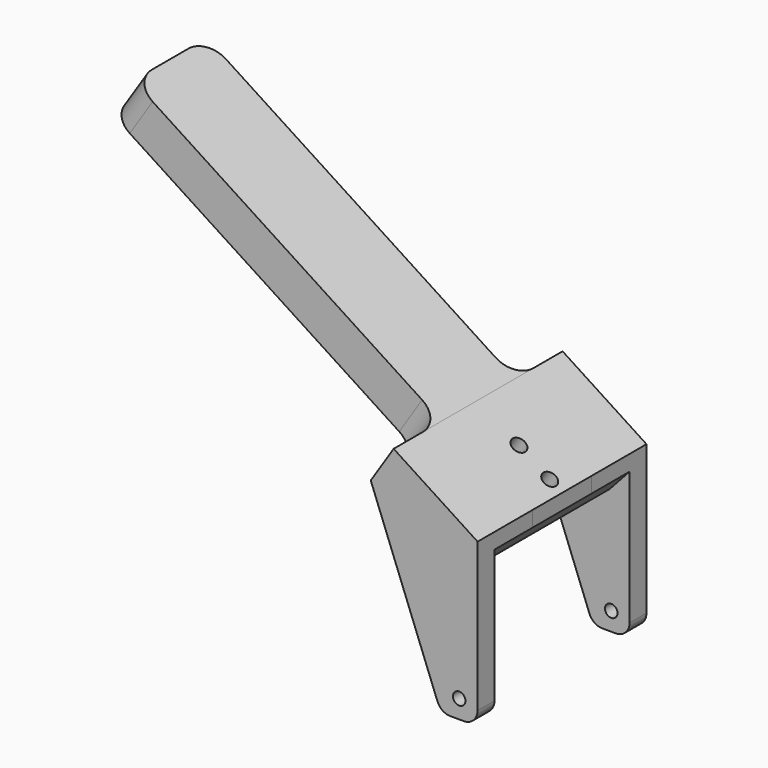
from build123d import *

# Parameters (mm, degrees)
F0_R      = 1.7272
F1_DEPTH  = 29.21
F2_W      = 46.736
F2_H      = 40.64
F3_DEPTH  = 25.4
F4_W      = 15.24
F4_H      = 6.35
F5_DEPTH  = 19.05
F6_W      = 15.24
F6_H      = 6.35
F7_DEPTH  = 19.05
F9_DEPTH  = 20.32
F11_DEPTH = 10.16
F12_SIZE2 = 0.8244325429
F12_SIZE  = 1.27
F13_W     = 25.4
F13_H     = 11.6485927218
F14_DEPTH = 101.6
F15_R     = 2.54
F16_R     = 6.35
F17_R     = 0.79502
F19_DEPTH = 5.842
F21_DEPTH = 5.842
F22_R     = 3.81
F24_DEPTH = 25.4
F26_DEPTH = 46.736
F27_R     = 2.032
F28_DEPTH = 70.6913527338


with BuildPart() as f1:
    # F0 (on Front) → F1 (new body, symmetric)
    with BuildSketch(Plane.XZ):
        Polygon((-10.16, 0), (0, 0), (0, 29.21), (0, 41.8084), (6.35, 41.8084), (6.35, 39.878), (10.16, 39.878), (12.7, 44.958), (0.0042528918, 44.958), (-10.16, 44.958), (-10.16, 37.6681894868), align=None)
        with Locations((-5.08, 5.08)):
            Circle(F0_R, mode=Mode.SUBTRACT)
        Polygon((-29.558896087, 50.2598920283), (-10.16, 37.6681894868), (-10.16, 44.958), (0.0042528918, 44.958), (-23.2167746872, 60.0306242704), align=None)
    extrude(amount=F1_DEPTH, both=True)

    # F2 (on face) → F3 (cut)
    with BuildSketch(Plane.YZ):
        with Locations((0, 20.32)):
            Rectangle(F2_W, F2_H)
    extrude(amount=-F3_DEPTH, mode=Mode.SUBTRACT)

    # F4 (on face) → F5 (cut)
    with BuildSketch(Plane(origin=(0, 29.21, 0), x_dir=(-1, 0, 0), z_dir=(0, 1, 0))):
        with Locations((-7.62, 41.783)):
            Rectangle(F4_W, F4_H)
    extrude(amount=-F5_DEPTH, mode=Mode.SUBTRACT)

    # F6 (on face) → F7 (cut)
    with BuildSketch(Plane.XZ.offset(29.21)):
        with Locations((7.62, 41.783)):
            Rectangle(F6_W, F6_H)
    extrude(amount=-F7_DEPTH, mode=Mode.SUBTRACT)

    # F8 (on face) → F9 (join)
    with BuildSketch(Plane.XZ.offset(10.16)):
        Polygon((2.8191059828, 41.8084), (0, 41.8084), (0, 40.64), align=None)
    extrude(amount=-F9_DEPTH)

    # F10 (on Front) → F11 (join, symmetric)
    with BuildSketch(Plane.XZ):
        Polygon((0.0042528918, 44.958), (12.7, 44.958), (-13.1833395176, 61.7587143563), (-16.9467400578, 55.9607838721), align=None)
    extrude(amount=F11_DEPTH, both=True)

    # F12
    f12_edges = [f1.edges().sort_by_distance(p)[0] for p in [
        (6.35, 0, 39.878),
    ]]
    f12_side = f1.faces().sort_by_distance((8.255, 0, 39.878))[0]
    chamfer(f12_edges, length=F12_SIZE, length2=F12_SIZE2, reference=f12_side)

    # F13 (on face) → F14 (join)
    with BuildSketch(Plane(origin=(-43.749584755, 0, 28.3975827839), x_dir=(0, -1, 0), z_dir=(-0.8387907858, 0, 0.5444538711))):
        with Locations((0, 31.888375289)):
            Rectangle(F13_W, F13_H)
    extrude(amount=F14_DEPTH)

    # F15
    f15_edges = [f1.edges().sort_by_distance(p)[0] for p in [
        (-13.18334, 0, 61.758714),
    ]]
    fillet(f15_edges, radius=F15_R)

    # F16
    f16_edges = [f1.edges().sort_by_distance(p)[0] for p in [
        (-26.387835, -12.7, 55.145258),
        (-26.387835, 12.7, 55.145258),
        (-111.608979, 12.7, 110.461771),
        (-111.608979, -12.7, 110.461771),
    ]]
    fillet(f16_edges, radius=F16_R)

    # F17
    f17_edges = [f1.edges().sort_by_distance(p)[0] for p in [
        (6.35, 0, 41.8084),
    ]]
    fillet(f17_edges, radius=F17_R)

    # F18 (on face) → F19 (join)
    with BuildSketch(Plane.XZ.offset(29.21)):
        Polygon((-10.16, 37.6681894868), (-29.558896087, 50.2598920283), (-10.16, 0), align=None)
    extrude(amount=-F19_DEPTH)

    # F20 (on face) → F21 (join)
    with BuildSketch(Plane(origin=(0, 29.21, 0), x_dir=(-1, 0, 0), z_dir=(0, 1, 0))):
        Polygon((10.16, 0), (29.558896087, 50.2598920283), (10.16, 37.6681894868), align=None)
    extrude(amount=-F21_DEPTH)

    # F22
    f22_edges = [f1.edges().sort_by_distance(p)[0] for p in [
        (0, -26.289, 0),
        (0, 26.289, 0),
        (-10.16, -26.289, 0),
        (-10.16, 26.289, 0),
    ]]
    fillet(f22_edges, radius=F22_R)

    # F23 (on face) → F24 (cut)
    with BuildSketch(Plane.XZ.offset(10.16)):
        with BuildLine():
            Line((-12.2835052774, 63.1450075017), (-14.5662523501, 59.6281857605))
            ThreePointArc((-14.5662523501, 59.6281857605), (-12.9643679303, 60.7296511872), (-11.0528109218, 60.3758015238))
            Line((-11.0528109218, 60.3758015238), (12.7, 44.958))
            Line((12.7, 44.958), (10.16, 39.878))
            Line((10.16, 39.878), (7.62, 39.878))
            Line((7.62, 39.878), (6.35, 40.7024325429))
            Line((6.35, 40.7024325429), (6.35, 41.01338))
            ThreePointArc((6.35, 41.01338), (6.1171440332, 41.5755440332), (5.55498, 41.8084))
            Line((5.55498, 41.8084), (2.8191059828, 41.8084))
            Line((2.8191059828, 41.8084), (0.0042528918, 40.6417626435))
            Line((0.0042528918, 40.6417626435), (0.0042528918, 37.8040261567))
            Line((0.0042528918, 37.8040261567), (17.359075731, 37.8040261567))
            Line((17.359075731, 37.8040261567), (17.359075731, 44.7986531364))
            Line((17.359075731, 44.7986531364), (-12.2835052774, 63.1450075017))
        make_face()
        with BuildLine():
            Line((-14.5662523501, 59.6281857605), (-16.9467400578, 55.9607838721))
            Line((-16.9467400578, 55.9607838721), (0.0042528918, 44.958))
            Line((0.0042528918, 44.958), (0.0042528918, 40.6417626435))
            Line((0.0042528918, 40.6417626435), (2.8191059828, 41.8084))
            Line((2.8191059828, 41.8084), (5.55498, 41.8084))
            ThreePointArc((5.55498, 41.8084), (6.1171440332, 41.5755440332), (6.35, 41.01338))
            Line((6.35, 41.01338), (6.35, 40.7024325429))
            Line((6.35, 40.7024325429), (7.62, 39.878))
            Line((7.62, 39.878), (10.16, 39.878))
            Line((10.16, 39.878), (12.7, 44.958))
            Line((12.7, 44.958), (-11.0528109218, 60.3758015238))
            ThreePointArc((-11.0528109218, 60.3758015238), (-12.9643679303, 60.7296511872), (-14.5662523501, 59.6281857605))
        make_face()
    extrude(amount=-F24_DEPTH, mode=Mode.SUBTRACT)

    # F25 (on face) → F26 (join)
    with BuildSketch(Plane.XZ.offset(-23.368)):
        Polygon((0, 40.64), (-14.738399398, 40.64), (-5.4826612016, 34.6321580255), align=None)
    extrude(amount=F26_DEPTH)

    # F27 (on face) → F28 (cut, through all)
    with BuildSketch(Plane(origin=(14.190688668, 0, 21.8623092444), x_dir=(0.8387907858, 0, -0.5444538711), z_dir=(-0.5444538711, 0, -0.8387907858))):
        with Locations((-28.5344181975, 0)):
            Circle(F27_R)
        with Locations((-38.6944181975, 0)):
            Circle(F27_R)
    extrude(amount=-F28_DEPTH, mode=Mode.SUBTRACT)


solid = f1.part
